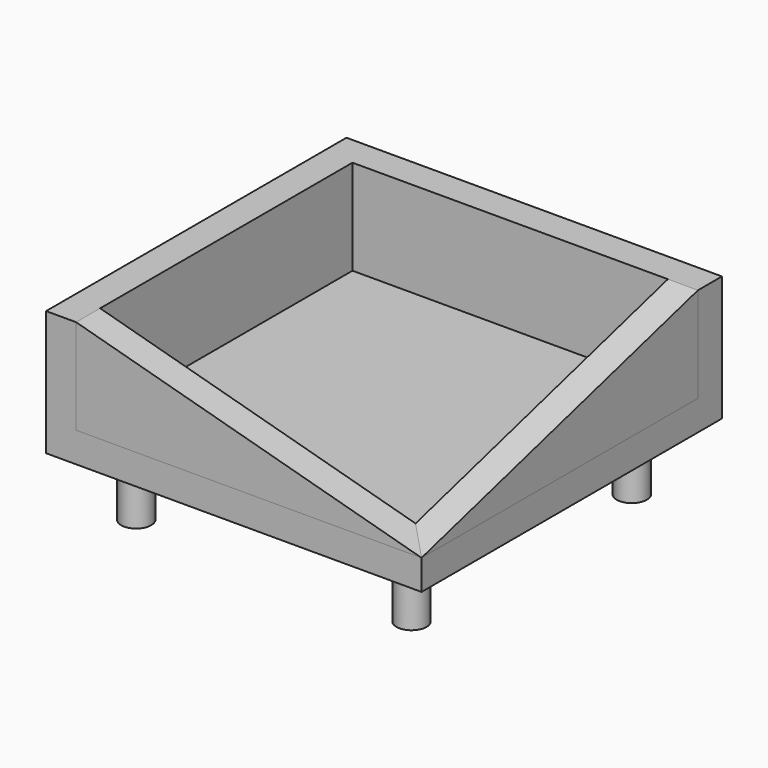
from build123d import *

# Parameters (mm, degrees)
F0_W     = 150
F0_H     = 150
F1_DEPTH = 12
F2_W     = 12
F2_H     = 138
F2_H_2   = 12
F2_W_2   = 138
F3_DEPTH = 38
F5_DEPTH = 12
F7_DEPTH = 12
F8_R     = 6
F9_DEPTH = 25


with BuildPart() as f1:
    # F0 (on Top) → F1 (new body)
    with BuildSketch(Plane.XY):
        Rectangle(F0_W, F0_H)
    extrude(amount=-F1_DEPTH)

    # F2 (on face) → F3 (join)
    with BuildSketch(Plane.XY):
        with Locations((-69, -6)):
            Rectangle(F2_W, F2_H)
        with Locations((-69, 69)):
            Rectangle(F2_W, F2_H_2)
        with Locations((6, 69)):
            Rectangle(F2_W_2, F2_H_2)
    extrude(amount=F3_DEPTH)

    # F8 (on face) → F9 (join)
    with BuildSketch(Plane(origin=(0, 0, -12), x_dir=(1, 0, 0), z_dir=(0, 0, -1))):
        with Locations((-55, 55)):
            Circle(F8_R)
        with Locations((55, 55)):
            Circle(F8_R)
        with Locations((55, -55)):
            Circle(F8_R)
        with Locations((-55, -55)):
            Circle(F8_R)
    extrude(amount=F9_DEPTH)


with BuildPart() as f5:
    # F4 (on face) → F5 (new body)
    with BuildSketch(Plane.XZ.offset(75)):
        Polygon((75, 0), (-63, 38), (-63, 0), align=None)
    extrude(amount=-F5_DEPTH)


with BuildPart() as f7:
    # F6 (on face) → F7 (new body)
    with BuildSketch(Plane.YZ.offset(75)):
        Polygon((63, 0), (63, 38), (-75, 0), align=None)
    extrude(amount=-F7_DEPTH)


solid = Compound([f1.part, f5.part, f7.part])
